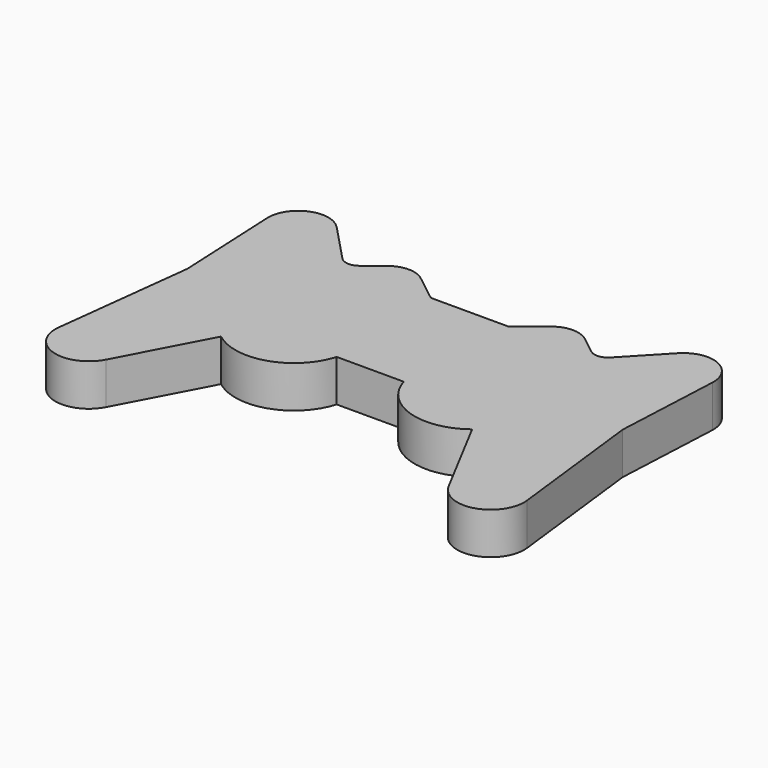
from build123d import *

# Parameters (mm, degrees)
PAD_DEPTH = 3.175
FILLET_R  = 1.016


with BuildPart() as part:
    # Sketch → Pad (new body)
    with BuildSketch(Plane.XY):
        with BuildLine():
            Line((-16.51, 3.302), (-17.762531, -7.32262))
            ThreePointArc((-17.762531, -7.32262), (-15.994846, -10.045244), (-12.994271, -8.806719))
            Line((-12.994271, -8.806719), (-9.525, -2.241526))
            ThreePointArc((-9.525, -2.241526), (-5.441505, -2.962411), (-2.54, 0))
            Line((-2.54, 0), (2.54, 0))
            ThreePointArc((2.54, 0), (5.441505, -2.962411), (9.525, -2.241526))
            Line((9.525, -2.241526), (12.994271, -8.806719))
            ThreePointArc((12.994271, -8.806719), (15.994846, -10.045244), (17.762531, -7.32262))
            Line((17.762531, -7.32262), (16.51, 3.302))
            Line((16.51, 3.302), (16.888459, 11.322248))
            ThreePointArc((16.888459, 11.322248), (15.501948, 13.532684), (12.946847, 13.003634))
            Line((12.946847, 13.003634), (9.525, 9.398))
            Line((9.525, 9.398), (7.473462, 10.999677))
            ThreePointArc((7.473462, 10.999677), (6.223, 11.43), (4.972538, 10.999677))
            Line((4.972538, 10.999677), (2.921, 9.398))
            Line((2.921, 9.398), (-2.921, 9.398))
            Line((-2.921, 9.398), (-4.972538, 10.999677))
            ThreePointArc((-4.972538, 10.999677), (-6.223, 11.43), (-7.473462, 10.999677))
            Line((-7.473462, 10.999677), (-9.525, 9.398))
            Line((-9.525, 9.398), (-12.946847, 13.003634))
            ThreePointArc((-12.946847, 13.003634), (-15.501948, 13.532684), (-16.888459, 11.322248))
            Line((-16.888459, 11.322248), (-16.51, 3.302))
        make_face()
    extrude(amount=PAD_DEPTH)

    # Fillet
    fillet_edges = [part.edges().sort_by_distance(p)[0] for p in [
        (-9.525, 9.398, 1.5875),
        (9.525, 9.398, 1.5875),
    ]]
    fillet(fillet_edges, radius=FILLET_R)


solid = part.part
